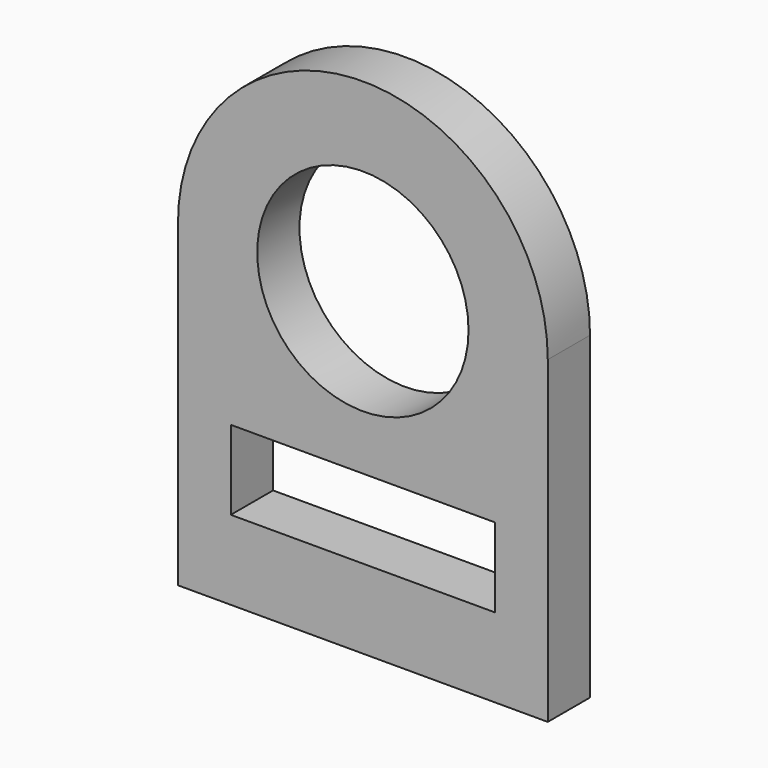
from build123d import *

# Parameters (mm, degrees)
F0_W     = 1270
F0_H     = 381
F0_R     = 508
F1_DEPTH = 254


with BuildPart() as f1:
    # F0 (on Front) → F1 (new body)
    with BuildSketch(Plane.XZ):
        with BuildLine():
            Line((0, 1524), (0, 0))
            Line((0, 0), (1778, 0))
            Line((1778, 0), (1778, 1524))
            Line((1778, 1524), (1778, 1533.561349))
            ThreePointArc((1778, 1533.561349), (889, 2422.561349), (0, 1533.561349))
            Line((0, 1533.561349), (0, 1524))
        make_face()
        with Locations((889, 571.5)):
            Rectangle(F0_W, F0_H, mode=Mode.SUBTRACT)
        with Locations((889, 1533.561349)):
            Circle(F0_R, mode=Mode.SUBTRACT)
    extrude(amount=F1_DEPTH)


solid = f1.part
